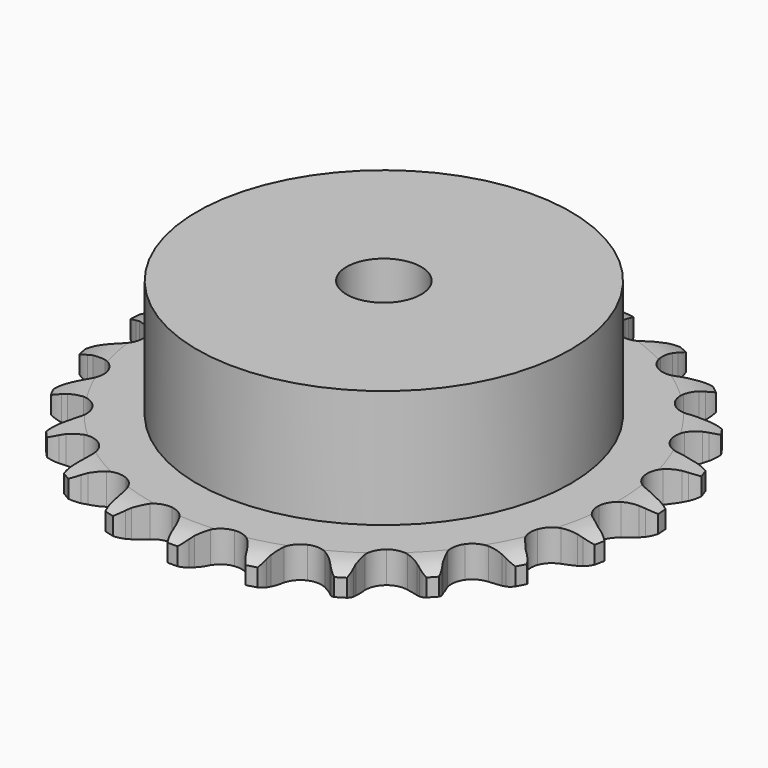
from build123d import *

# Parameters (mm, degrees)
PAD_DEPTH         = 5.9
SKETCH001_R       = 35
PAD001_DEPTH      = 28
SKETCH002_R       = 7
POCKET_DEPTH      = 0.001
POCKET_DEPTH_BACK = 28.001


with BuildPart() as part:
    # Sprocket → Pad (new body)
    with BuildSketch(Plane.XY):
        with BuildLine():
            ThreePointArc((-6.902422, 50.21885), (-5.698677, 49.018834), (-4.855886, 47.542778))
            Line((-4.855886, 47.542778), (-4.480163, 46.614859))
            ThreePointArc((-4.480163, 46.614859), (-3.878697, 45.378099), (-3.115295, 44.23418))
            ThreePointArc((-3.115295, 44.23418), (-1.735943, 43.105455), (0, 42.701558))
            ThreePointArc((0, 42.701558), (1.735943, 43.105455), (3.115295, 44.23418))
            ThreePointArc((3.115295, 44.23418), (3.878697, 45.378099), (4.480163, 46.614859))
            Line((4.480163, 46.614859), (4.855886, 47.542778))
            ThreePointArc((4.855886, 47.542778), (5.698677, 49.018834), (6.902422, 50.21885))
            ThreePointArc((6.902422, 50.21885), (7.737769, 48.738568), (8.151072, 47.089865))
            Line((8.151072, 47.089865), (8.262512, 46.094987))
            ThreePointArc((8.262512, 46.094987), (8.508001, 44.741816), (8.934467, 43.434353))
            ThreePointArc((8.934467, 43.434353), (9.958143, 41.97534), (11.520742, 41.118068))
            ThreePointArc((11.520742, 41.118068), (13.301282, 41.038636), (14.93401, 41.75336))
            Line((14.93401, 41.75336), (16.890564, 43.67752))
            ThreePointArc((16.890564, 43.67752), (17.186845, 44.081155), (17.502704, 44.46966))
            ThreePointArc((17.502704, 44.46966), (18.712478, 45.663598), (20.195345, 46.494348))
            ThreePointArc((20.195345, 46.494348), (20.600339, 44.843584), (20.553501, 43.144512))
            Line((20.553501, 43.144512), (20.392394, 42.15646))
            ThreePointArc((20.392394, 42.15646), (20.263699, 40.787237), (20.321601, 39.413199))
            ThreePointArc((20.321601, 39.413199), (20.913679, 37.732105), (22.187044, 36.48504))
            ThreePointArc((22.187044, 36.48504), (23.880126, 35.928169), (25.645138, 36.175884))
            Line((25.645138, 36.175884), (28.04827, 37.500819))
            ThreePointArc((28.04827, 37.500819), (28.442464, 37.809551), (28.851427, 38.098432))
            ThreePointArc((28.851427, 38.098432), (30.33846, 38.921702), (31.990472, 39.321572))
            ThreePointArc((31.990472, 39.321572), (31.935077, 37.622758), (31.431572, 35.999328))
            Line((31.431572, 35.999328), (31.009866, 35.091382))
            ThreePointArc((31.009866, 35.091382), (30.516531, 33.807655), (30.201575, 32.468948))
            ThreePointArc((30.201575, 32.468948), (30.318144, 30.690453), (31.207834, 29.146083))
            ThreePointArc((31.207834, 29.146083), (32.68789, 28.153074), (34.454284, 27.915409))
            Line((34.454284, 27.915409), (37.125764, 28.542854))
            ThreePointArc((37.125764, 28.542854), (37.588635, 28.733785), (38.060372, 28.901617))
            ThreePointArc((38.060372, 28.901617), (39.714377, 29.293161), (41.413012, 29.232496))
            ThreePointArc((41.413012, 29.232496), (40.901336, 27.611623), (39.978506, 26.184239))
            Line((39.978506, 26.184239), (39.327478, 25.423737))
            ThreePointArc((39.327478, 25.423737), (38.506091, 24.320714), (37.841636, 23.116624))
            ThreePointArc((37.841636, 23.116624), (37.47405, 21.372631), (37.914082, 19.645494))
            ThreePointArc((37.914082, 19.645494), (39.071343, 18.289995), (40.708112, 17.584575))
            Line((40.708112, 17.584575), (43.44981, 17.467997))
            ThreePointArc((43.44981, 17.467997), (43.947028, 17.526966), (44.446553, 17.561301))
            ThreePointArc((44.446553, 17.561301), (46.144861, 17.492081), (47.764138, 16.975379))
            ThreePointArc((47.764138, 16.975379), (46.834131, 15.552661), (45.560418, 14.427184))
            Line((45.560418, 14.427184), (44.72835, 13.870529))
            ThreePointArc((44.72835, 13.870529), (43.639831, 13.030017), (42.675156, 12.049846))
            ThreePointArc((42.675156, 12.049846), (41.850677, 10.469698), (41.808416, 8.687889))
            ThreePointArc((41.808416, 8.687889), (42.557053, 7.07043), (43.942807, 5.949574))
            Line((43.942807, 5.949574), (46.551382, 5.097617))
            ThreePointArc((46.551382, 5.097617), (47.046072, 5.020252), (47.536336, 4.918544))
            ThreePointArc((47.536336, 4.918544), (49.152991, 4.393693), (50.572816, 3.459275))
            ThreePointArc((50.572816, 3.459275), (49.293452, 2.340228), (47.763322, 1.600132))
            Line((47.763322, 1.600132), (46.811926, 1.288608))
            ThreePointArc((46.811926, 1.288608), (45.537004, 0.772943), (44.343655, 0.089385))
            ThreePointArc((44.343655, 0.089385), (43.123431, -1.209724), (42.602011, -2.914057))
            ThreePointArc((42.602011, -2.914057), (42.886501, -4.673516), (43.918464, -6.12668))
            Line((43.918464, -6.12668), (46.200451, -7.650829))
            ThreePointArc((46.200451, -7.650829), (46.655924, -7.858791), (47.100567, -8.088999))
            ThreePointArc((47.100567, -8.088999), (48.515669, -9.030556), (49.630741, -10.313386))
            ThreePointArc((49.630741, -10.313386), (48.096903, -11.045768), (46.423839, -11.345596))
            Line((46.423839, -11.345596), (45.423675, -11.388884))
            ThreePointArc((45.423675, -11.388884), (44.056906, -11.541456), (42.723388, -11.877704))
            ThreePointArc((42.723388, -11.877704), (41.197918, -12.799427), (40.236009, -14.299881))
            ThreePointArc((40.236009, -14.299881), (40.035254, -16.070849), (40.63689, -17.748546))
            Line((40.63689, -17.748546), (42.423044, -19.831848))
            ThreePointArc((42.423044, -19.831848), (42.80552, -20.154983), (43.171565, -20.496618))
            ThreePointArc((43.171565, -20.496618), (44.280161, -21.785049), (45.00778, -23.321152))
            ThreePointArc((45.00778, -23.321152), (43.333227, -23.61255), (41.641312, -23.449872))
            Line((41.641312, -23.449872), (40.666558, -23.221714))
            ThreePointArc((40.666558, -23.221714), (39.309309, -22.999879), (37.934522, -22.963879))
            ThreePointArc((37.934522, -22.963879), (36.216943, -23.439855), (34.885887, -24.625148))
            ThreePointArc((34.885887, -24.625148), (34.214775, -26.276281), (34.341464, -28.054083))
            Line((34.341464, -28.054083), (35.499314, -30.54203))
            ThreePointArc((35.499314, -30.54203), (35.780425, -30.956373), (36.040724, -31.384097))
            ThreePointArc((36.040724, -31.384097), (36.760597, -32.923845), (37.046798, -34.599294))
            ThreePointArc((37.046798, -34.599294), (35.355723, -34.428097), (33.770439, -33.814979))
            Line((33.770439, -33.814979), (32.893388, -33.332295))
            ThreePointArc((32.893388, -33.332295), (31.64632, -32.752505), (30.332227, -32.346927))
            ThreePointArc((30.332227, -32.346927), (28.549924, -32.341856), (26.948438, -33.124081))
            ThreePointArc((26.948438, -33.124081), (25.856742, -34.532921), (25.499088, -36.278978))
            Line((25.499088, -36.278978), (25.942763, -38.987049))
            ThreePointArc((25.942763, -38.987049), (26.101661, -39.46187), (26.236909, -39.94396))
            ThreePointArc((26.236909, -39.94396), (26.514667, -41.62083), (26.338224, -43.311364))
            ThreePointArc((26.338224, -43.311364), (24.756048, -42.69027), (23.394968, -41.672183))
            Line((23.394968, -41.672183), (22.680666, -40.970773))
            ThreePointArc((22.680666, -40.970773), (21.636269, -40.076029), (20.480329, -39.330952))
            ThreePointArc((20.480329, -39.330952), (18.765487, -38.845209), (17.012347, -39.166352))
            ThreePointArc((17.012347, -39.166352), (15.581034, -40.228412), (14.765562, -41.813226))
            Line((14.765562, -41.813226), (14.462155, -44.540577))
            ThreePointArc((14.462155, -44.540577), (14.487055, -45.04066), (14.487221, -45.541363))
            ThreePointArc((14.487221, -45.541363), (14.302266, -47.230988), (13.676265, -48.811229))
            ThreePointArc((13.676265, -48.811229), (12.32033, -47.786301), (11.284398, -46.438752))
            Line((11.284398, -46.438752), (10.785823, -45.570637))
            ThreePointArc((10.785823, -45.570637), (10.021554, -44.427296), (9.109499, -43.397981))
            ThreePointArc((9.109499, -43.397981), (7.5893, -42.467591), (5.814528, -42.303833))
            ThreePointArc((5.814528, -42.303833), (4.149751, -42.940346), (2.936941, -44.246379))
            Line((2.936941, -44.246379), (1.908955, -46.790734))
            ThreePointArc((1.908955, -46.790734), (1.798011, -47.278991), (1.663083, -47.761171))
            ThreePointArc((1.663083, -47.761171), (1.029131, -49.33824), (0, -50.690989))
            ThreePointArc((0, -50.690989), (-1.029131, -49.33824), (-1.663083, -47.761171))
            Line((-1.663083, -47.761171), (-1.908955, -46.790734))
            ThreePointArc((-1.908955, -46.790734), (-2.336414, -45.483594), (-2.936941, -44.246379))
            ThreePointArc((-2.936941, -44.246379), (-4.149751, -42.940346), (-5.814528, -42.303833))
            ThreePointArc((-5.814528, -42.303833), (-7.5893, -42.467591), (-9.109499, -43.397981))
            Line((-9.109499, -43.397981), (-10.785823, -45.570637))
            ThreePointArc((-10.785823, -45.570637), (-11.024383, -46.010856), (-11.284398, -46.438752))
            ThreePointArc((-11.284398, -46.438752), (-12.32033, -47.786301), (-13.676265, -48.811229))
            ThreePointArc((-13.676265, -48.811229), (-14.302266, -47.230988), (-14.487221, -45.541363))
            Line((-14.487221, -45.541363), (-14.462155, -44.540577))
            ThreePointArc((-14.462155, -44.540577), (-14.5211, -43.166583), (-14.765562, -41.813226))
            ThreePointArc((-14.765562, -41.813226), (-15.581034, -40.228412), (-17.012347, -39.166352))
            ThreePointArc((-17.012347, -39.166352), (-18.765487, -38.845209), (-20.480329, -39.330952))
            Line((-20.480329, -39.330952), (-22.680666, -40.970773))
            ThreePointArc((-22.680666, -40.970773), (-23.029149, -41.330305), (-23.394968, -41.672183))
            ThreePointArc((-23.394968, -41.672183), (-24.756048, -42.69027), (-26.338224, -43.311364))
            ThreePointArc((-26.338224, -43.311364), (-26.514667, -41.62083), (-26.236909, -39.94396))
            Line((-26.236909, -39.94396), (-25.942763, -38.987049))
            ThreePointArc((-25.942763, -38.987049), (-25.628823, -37.648103), (-25.499088, -36.278978))
            ThreePointArc((-25.499088, -36.278978), (-25.856742, -34.532921), (-26.948438, -33.124081))
            ThreePointArc((-26.948438, -33.124081), (-28.549924, -32.341856), (-30.332227, -32.346927))
            Line((-30.332227, -32.346927), (-32.893388, -33.332295))
            ThreePointArc((-32.893388, -33.332295), (-33.325949, -33.584475), (-33.770439, -33.814979))
            ThreePointArc((-33.770439, -33.814979), (-35.355723, -34.428097), (-37.046798, -34.599294))
            ThreePointArc((-37.046798, -34.599294), (-36.760597, -32.923845), (-36.040724, -31.384097))
            Line((-36.040724, -31.384097), (-35.499314, -30.54203))
            ThreePointArc((-35.499314, -30.54203), (-34.835773, -29.337435), (-34.341464, -28.054083))
            ThreePointArc((-34.341464, -28.054083), (-34.214775, -26.276281), (-34.885887, -24.625148))
            ThreePointArc((-34.885887, -24.625148), (-36.216943, -23.439855), (-37.934522, -22.963879))
            Line((-37.934522, -22.963879), (-40.666558, -23.221714))
            ThreePointArc((-40.666558, -23.221714), (-41.151115, -23.347839), (-41.641312, -23.449872))
            ThreePointArc((-41.641312, -23.449872), (-43.333227, -23.61255), (-45.00778, -23.321152))
            ThreePointArc((-45.00778, -23.321152), (-44.280161, -21.785049), (-43.171565, -20.496618))
            Line((-43.171565, -20.496618), (-42.423044, -19.831848))
            ThreePointArc((-42.423044, -19.831848), (-41.459113, -18.850944), (-40.63689, -17.748546))
            ThreePointArc((-40.63689, -17.748546), (-40.035254, -16.070849), (-40.236009, -14.299881))
            ThreePointArc((-40.236009, -14.299881), (-41.197918, -12.799427), (-42.723388, -11.877704))
            Line((-42.723388, -11.877704), (-45.423675, -11.388884))
            ThreePointArc((-45.423675, -11.388884), (-45.924292, -11.379599), (-46.423839, -11.345596))
            ThreePointArc((-46.423839, -11.345596), (-48.096903, -11.045768), (-49.630741, -10.313386))
            ThreePointArc((-49.630741, -10.313386), (-48.515669, -9.030556), (-47.100567, -8.088999))
            Line((-47.100567, -8.088999), (-46.200451, -7.650829))
            ThreePointArc((-46.200451, -7.650829), (-45.007621, -6.966365), (-43.918464, -6.12668))
            ThreePointArc((-43.918464, -6.12668), (-42.886501, -4.673516), (-42.602011, -2.914057))
            ThreePointArc((-42.602011, -2.914057), (-43.123431, -1.209724), (-44.343655, 0.089385))
            Line((-44.343655, 0.089385), (-46.811926, 1.288608))
            ThreePointArc((-46.811926, 1.288608), (-47.291474, 1.432613), (-47.763322, 1.600132))
            ThreePointArc((-47.763322, 1.600132), (-49.293452, 2.340228), (-50.572816, 3.459275))
            ThreePointArc((-50.572816, 3.459275), (-49.152991, 4.393693), (-47.536336, 4.918544))
            Line((-47.536336, 4.918544), (-46.551382, 5.097617))
            ThreePointArc((-46.551382, 5.097617), (-45.218119, 5.434877), (-43.942807, 5.949574))
            ThreePointArc((-43.942807, 5.949574), (-42.557053, 7.07043), (-41.808416, 8.687889))
            ThreePointArc((-41.808416, 8.687889), (-41.850677, 10.469698), (-42.675156, 12.049846))
            Line((-42.675156, 12.049846), (-44.72835, 13.870529))
            ThreePointArc((-44.72835, 13.870529), (-45.151263, 14.138574), (-45.560418, 14.427184))
            ThreePointArc((-45.560418, 14.427184), (-46.834131, 15.552661), (-47.764138, 16.975379))
            ThreePointArc((-47.764138, 16.975379), (-46.144861, 17.492081), (-44.446553, 17.561301))
            Line((-44.446553, 17.561301), (-43.44981, 17.467997))
            ThreePointArc((-43.44981, 17.467997), (-42.074996, 17.43304), (-40.708112, 17.584575))
            ThreePointArc((-40.708112, 17.584575), (-39.071343, 18.289995), (-37.914082, 19.645494))
            ThreePointArc((-37.914082, 19.645494), (-37.47405, 21.372631), (-37.841636, 23.116624))
            Line((-37.841636, 23.116624), (-39.327478, 25.423737))
            ThreePointArc((-39.327478, 25.423737), (-39.66239, 25.795943), (-39.978506, 26.184239))
            ThreePointArc((-39.978506, 26.184239), (-40.901336, 27.611623), (-41.413012, 29.232496))
            ThreePointArc((-41.413012, 29.232496), (-39.714377, 29.293161), (-38.060372, 28.901617))
            Line((-38.060372, 28.901617), (-37.125764, 28.542854))
            ThreePointArc((-37.125764, 28.542854), (-35.811364, 28.138273), (-34.454284, 27.915409))
            ThreePointArc((-34.454284, 27.915409), (-32.68789, 28.153074), (-31.207834, 29.146083))
            ThreePointArc((-31.207834, 29.146083), (-30.318144, 30.690453), (-30.201575, 32.468948))
            Line((-30.201575, 32.468948), (-31.009866, 35.091382))
            ThreePointArc((-31.009866, 35.091382), (-31.231939, 35.540144), (-31.431572, 35.999328))
            ThreePointArc((-31.431572, 35.999328), (-31.935077, 37.622758), (-31.990472, 39.321572))
            ThreePointArc((-31.990472, 39.321572), (-30.33846, 38.921702), (-28.851427, 38.098432))
            Line((-28.851427, 38.098432), (-28.04827, 37.500819))
            ThreePointArc((-28.04827, 37.500819), (-26.891766, 36.75662), (-25.645138, 36.175884))
            ThreePointArc((-25.645138, 36.175884), (-23.880126, 35.928169), (-22.187044, 36.48504))
            ThreePointArc((-22.187044, 36.48504), (-20.913679, 37.732105), (-20.321601, 39.413199))
            Line((-20.321601, 39.413199), (-20.392394, 42.15646))
            ThreePointArc((-20.392394, 42.15646), (-20.485158, 42.648495), (-20.553501, 43.144512))
            ThreePointArc((-20.553501, 43.144512), (-20.600339, 44.843584), (-20.195345, 46.494348))
            ThreePointArc((-20.195345, 46.494348), (-18.712478, 45.663598), (-17.502704, 44.46966))
            Line((-17.502704, 44.46966), (-16.890564, 43.67752))
            ThreePointArc((-16.890564, 43.67752), (-15.977729, 42.648897), (-14.93401, 41.75336))
            ThreePointArc((-14.93401, 41.75336), (-13.301282, 41.038636), (-11.520742, 41.118068))
            ThreePointArc((-11.520742, 41.118068), (-9.958143, 41.97534), (-8.934467, 43.434353))
            Line((-8.934467, 43.434353), (-8.262512, 46.094987))
            ThreePointArc((-8.262512, 46.094987), (-8.219086, 46.593803), (-8.151072, 47.089865))
            ThreePointArc((-8.151072, 47.089865), (-7.737769, 48.738568), (-6.902422, 50.21885))
        make_face()
    extrude(amount=PAD_DEPTH)

    # Sketch → Groove (revolve, cut)
    with BuildSketch(Plane.XZ):
        with BuildLine():
            Line((43.833431, 0), (49.5, 0))
            Line((55.166569, 0), (49.5, 0))
            Line((55.166569, 5.9), (55.166569, 0))
            Line((49.5, 5.9), (55.166569, 5.9))
            Line((43.833431, 5.9), (49.5, 5.9))
            ThreePointArc((49.5, 4.6), (46.74032, 5.570833), (43.833431, 5.9))
            Line((49.5, 1.3), (49.5, 4.6))
            ThreePointArc((43.833431, 0), (46.74032, 0.329167), (49.5, 1.3))
        make_face()
    revolve(axis=Axis((0, 0, 0), (0, 0, 1)), mode=Mode.SUBTRACT)

    # Sketch001 → Pad001 (join)
    with BuildSketch(Plane.XY):
        Circle(SKETCH001_R)
    extrude(amount=PAD001_DEPTH)

    # Sketch002 → Pocket (cut, two sides)
    with BuildSketch(Plane.XY) as pocket_sk:
        Circle(SKETCH002_R)
    extrude(amount=-POCKET_DEPTH, mode=Mode.SUBTRACT)
    extrude(pocket_sk.sketch, amount=POCKET_DEPTH_BACK, mode=Mode.SUBTRACT)


solid = part.part
